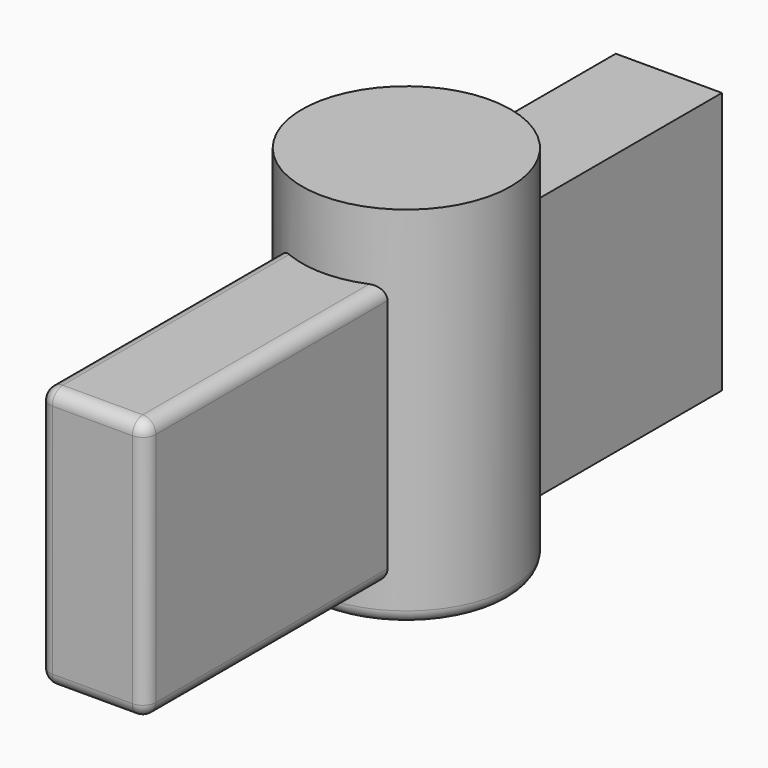
from build123d import *

# Parameters (mm, degrees)
F0_R     = 101.314415
F1_DEPTH = 355.6
F2_W     = 103.034616
F2_H     = 254.342378
F3_DEPTH = 318.465123
F4_DEPTH = 381
F5_R     = 12.7


with BuildPart() as f1:
    # F0 (on Top) → F1 (new body)
    with BuildSketch(Plane.XY):
        Circle(F0_R)
    extrude(amount=F1_DEPTH)

    # F2 (on Front) → F3 (join)
    with BuildSketch(Plane.XZ):
        with Locations((0, 162.727058)):
            Rectangle(F2_W, F2_H)
    extrude(amount=-F3_DEPTH)

    # F2 (on Front) → F4 (join)
    with BuildSketch(Plane.XZ):
        with Locations((0, 162.727058)):
            Rectangle(F2_W, F2_H)
    extrude(amount=F4_DEPTH)

    # F5
    f5_edges = [f1.edges().sort_by_distance(p)[0] for p in [
        (-101.314415, 0, 0),
        (51.517308, -234.119313, 35.555869),
        (51.517308, -234.119313, 289.898247),
        (51.517308, -381, 162.727058),
        (-51.517308, -234.119313, 35.555869),
        (-51.517308, -234.119313, 289.898247),
        (0, -381, 289.898247),
        (-51.517308, -381, 162.727058),
        (0, -381, 35.555869),
    ]]
    fillet(f5_edges, radius=F5_R)


solid = f1.part
